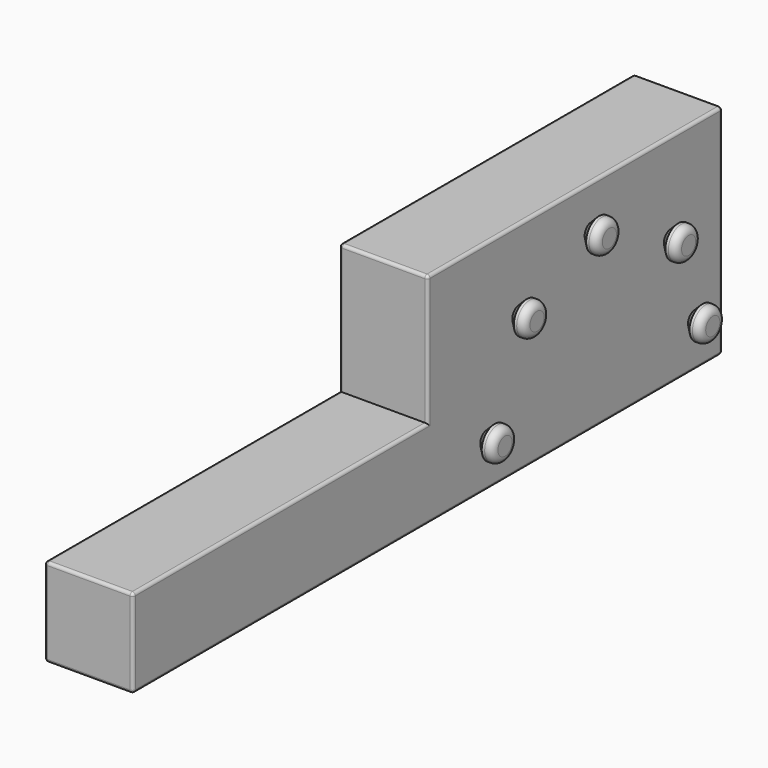
from build123d import *

# Parameters (mm, degrees)
F0_W       = 60
F0_H       = 500
F1_DEPTH   = 60
F2_R       = 11
F3_DEPTH   = 12
F4_W       = 60
F4_H       = 250
F5_DEPTH   = 148
F6_R       = 11
F7_DEPTH   = 12
F8_R       = 2
F9_R       = 5
F9_2_R     = 5
F9_3_R     = 5
F9_4_R     = 5
F9_5_R     = 5
F10_SIZE   = 5
F10_2_SIZE = 5
F10_3_SIZE = 5
F10_4_SIZE = 5
F10_5_SIZE = 5


with BuildPart() as f1:
    # F0 (on Top) → F1 (new body)
    with BuildSketch(Plane.XY):
        with Locations((30, 250)):
            Rectangle(F0_W, F0_H)
    extrude(amount=F1_DEPTH)

    # F4 (on face) → F5 (join)
    with BuildSketch(Plane(origin=(0, 0, 0), x_dir=(1, 0, 0), z_dir=(0, 0, -1))):
        with Locations((30, -375)):
            Rectangle(F4_W, F4_H)
    extrude(amount=-F5_DEPTH)

    # F8
    f8_edges = [f1.edges().sort_by_distance(p)[0] for p in [
        (60, 125, 60),
        (60, 0, 30),
        (60, 250, 0),
        (60, 250, 104),
        (60, 375, 148),
        (60, 500, 74),
        (30, 0, 0),
        (0, 0, 30),
        (30, 0, 60),
        (30, 250, 148),
        (0, 375, 148),
        (0, 125, 60),
        (0, 250, 104),
        (0, 250, 0),
        (30, 500, 0),
        (0, 500, 74),
        (30, 500, 148),
    ]]
    fillet(f8_edges, radius=F8_R)


with BuildPart() as f3:
    # F2 (on face) → F3 (new body)
    with BuildSketch(Plane.YZ.offset(60)):
        with Locations((300.5740484487, 30)):
            Circle(F2_R)
    extrude(amount=F3_DEPTH)

    # F9
    f9_edges = [f3.edges().sort_by_distance(p)[0] for p in [
        (72, 289.574048, 30),
    ]]
    fillet(f9_edges, radius=F9_R)

    # F10#5
    f10_5_edges = [f3.edges().sort_by_distance(p)[0] for p in [
        (60, 289.574048, 30),
    ]]
    chamfer(f10_5_edges, length=F10_5_SIZE)


with BuildPart() as f3b:
    # F2 (on face) → F3, piece 2 (new body)
    with BuildSketch(Plane.YZ.offset(60)):
        with Locations((389.1209010156, 118.169720734)):
            Circle(F2_R)
    extrude(amount=F3_DEPTH)

    # F9#3
    f9_3_edges = [f3b.edges().sort_by_distance(p)[0] for p in [
        (72, 378.120901, 118.169721),
    ]]
    fillet(f9_3_edges, radius=F9_3_R)

    # F10#2
    f10_2_edges = [f3b.edges().sort_by_distance(p)[0] for p in [
        (60, 378.120901, 118.169721),
    ]]
    chamfer(f10_2_edges, length=F10_2_SIZE)


with BuildPart() as f3c:
    # F2 (on face) → F3, piece 3 (new body)
    with BuildSketch(Plane.YZ.offset(60)):
        with Locations((476.8227934837, 30)):
            Circle(F2_R)
    extrude(amount=F3_DEPTH)

    # F9#4
    f9_4_edges = [f3c.edges().sort_by_distance(p)[0] for p in [
        (72, 465.822793, 30),
    ]]
    fillet(f9_4_edges, radius=F9_4_R)

    # F10#4
    f10_4_edges = [f3c.edges().sort_by_distance(p)[0] for p in [
        (60, 465.822793, 30),
    ]]
    chamfer(f10_4_edges, length=F10_4_SIZE)


with BuildPart() as f7:
    # F6 (on face) → F7 (new body)
    with BuildSketch(Plane.YZ.offset(60)):
        with Locations((327.7612927353, 93.5252145062)):
            Circle(F6_R)
    extrude(amount=F7_DEPTH)

    # F9#2
    f9_2_edges = [f7.edges().sort_by_distance(p)[0] for p in [
        (72, 316.761293, 93.525215),
    ]]
    fillet(f9_2_edges, radius=F9_2_R)

    # F10
    f10_edges = [f7.edges().sort_by_distance(p)[0] for p in [
        (60, 316.761293, 93.525215),
    ]]
    chamfer(f10_edges, length=F10_SIZE)


with BuildPart() as f7b:
    # F6 (on face) → F7, piece 2 (new body)
    with BuildSketch(Plane.YZ.offset(60)):
        with Locations((456.3455627632, 86.5654273433)):
            Circle(F6_R)
    extrude(amount=F7_DEPTH)

    # F9#5
    f9_5_edges = [f7b.edges().sort_by_distance(p)[0] for p in [
        (72, 445.345563, 86.565427),
    ]]
    fillet(f9_5_edges, radius=F9_5_R)

    # F10#3
    f10_3_edges = [f7b.edges().sort_by_distance(p)[0] for p in [
        (60, 445.345563, 86.565427),
    ]]
    chamfer(f10_3_edges, length=F10_3_SIZE)


solid = Compound([f1.part, f3.part, f3b.part, f3c.part, f7.part, f7b.part])
